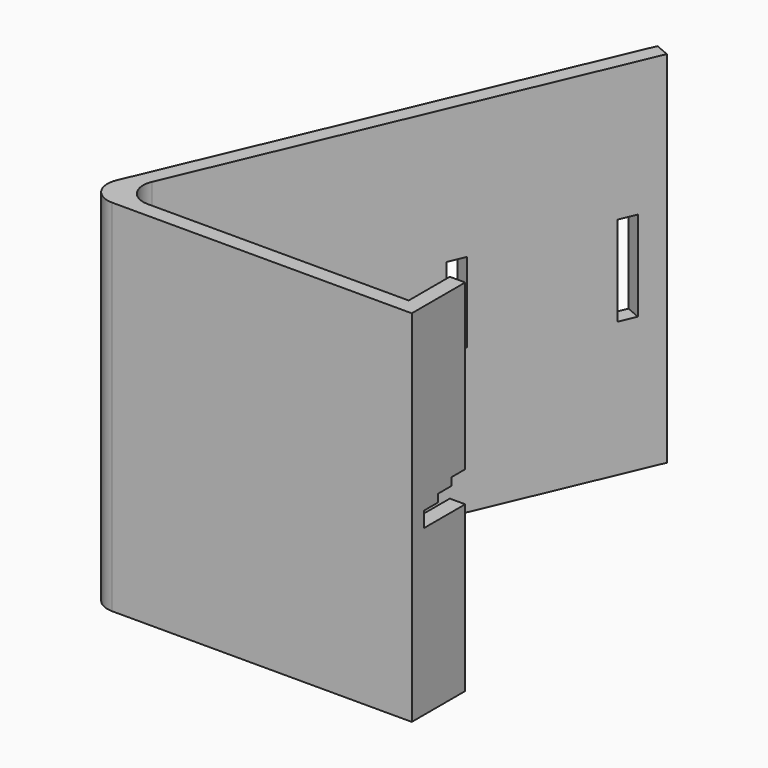
from build123d import *

# Parameters (mm, degrees)
PAD_DEPTH       = 70
SKETCH001_W     = 3.5
SKETCH001_H     = 17.5
SKETCH001_H_2   = 15.5
POCKET_DEPTH    = 36.998994
POCKET001_DEPTH = 5


with BuildPart() as part:
    # Sketch → Pad (new body)
    with BuildSketch(Plane.XY):
        with BuildLine():
            Line((6.674721, 0), (65, 0))
            Line((65, 0), (65, 3))
            Line((65, 3), (65, 13))
            Line((65, 13), (62, 13))
            Line((62, 13), (62, 3))
            Line((62, 3), (11.215347, 3))
            ThreePointArc((7.158765, 9.139809), (7.535908, 4.978987), (11.215347, 3))
            Line((7.158765, 9.139809), (41.984267, 90.809258))
            Line((41.984267, 90.809258), (39.224687, 91.985998))
            Line((2.618138, 6.139809), (39.224687, 91.985998))
            ThreePointArc((2.618138, 6.139809), (2.995281, 1.978987), (6.674721, 0))
        make_face()
    extrude(amount=PAD_DEPTH)

    # Sketch001 (on Face9 of Pad) → Pocket (cut, through all)
    with BuildSketch(Plane(origin=(2.75958, -1.176741, 0), x_dir=(0.392247, 0.91986, 0), z_dir=(0.91986, -0.392247, 0))):
        with Locations((93.25, 35)):
            Rectangle(SKETCH001_W, SKETCH001_H)
        with Locations((63.75, 36)):
            Rectangle(SKETCH001_W, SKETCH001_H_2)
    extrude(amount=-POCKET_DEPTH, mode=Mode.SUBTRACT)

    # Sketch002 (on Face16 of Pocket) → Pocket001 (cut)
    with BuildSketch(Plane.YZ.offset(65)):
        Polygon((3, 35), (3, 32), (13, 32), (13, 38), (9.666667, 38), (9.666667, 36.5), (6.333333, 36.5), (6.333333, 35), align=None)
    extrude(amount=-POCKET001_DEPTH, mode=Mode.SUBTRACT)


solid = part.part
